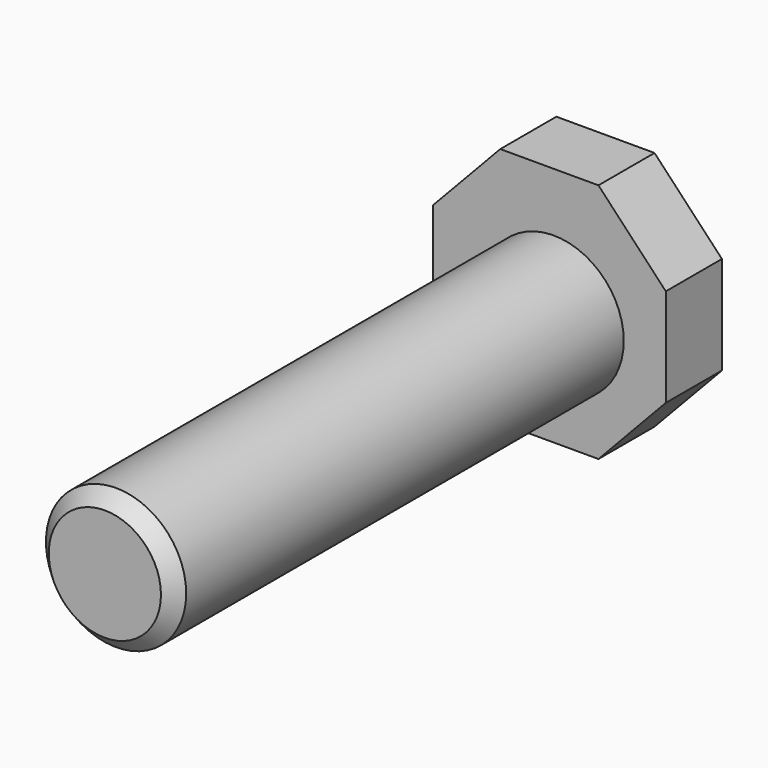
from build123d import *

# Parameters (mm, degrees)
F0_R     = 6.35
F1_DEPTH = 50.8
F3_DEPTH = 6.35
F4_SIZE  = 1.27


with BuildPart() as f1:
    # F0 (on Front) → F1 (new body)
    with BuildSketch(Plane.XZ):
        Circle(F0_R)
    extrude(amount=F1_DEPTH)

    # F2 (on Front) → F3 (join)
    with BuildSketch(Plane.XZ):
        Polygon((-10.933553, -3.694675), (-4.831777, -10.16), (4.058223, -10.16), (10.16, -3.694675), (10.16, 5.195325), (4.058223, 11.660649), (-4.831777, 11.660649), (-10.933553, 5.195325), align=None)
    extrude(amount=-F3_DEPTH)

    # F4
    f4_edges = [f1.edges().sort_by_distance(p)[0] for p in [
        (-6.35, -50.8, 0),
    ]]
    chamfer(f4_edges, length=F4_SIZE)


solid = f1.part
